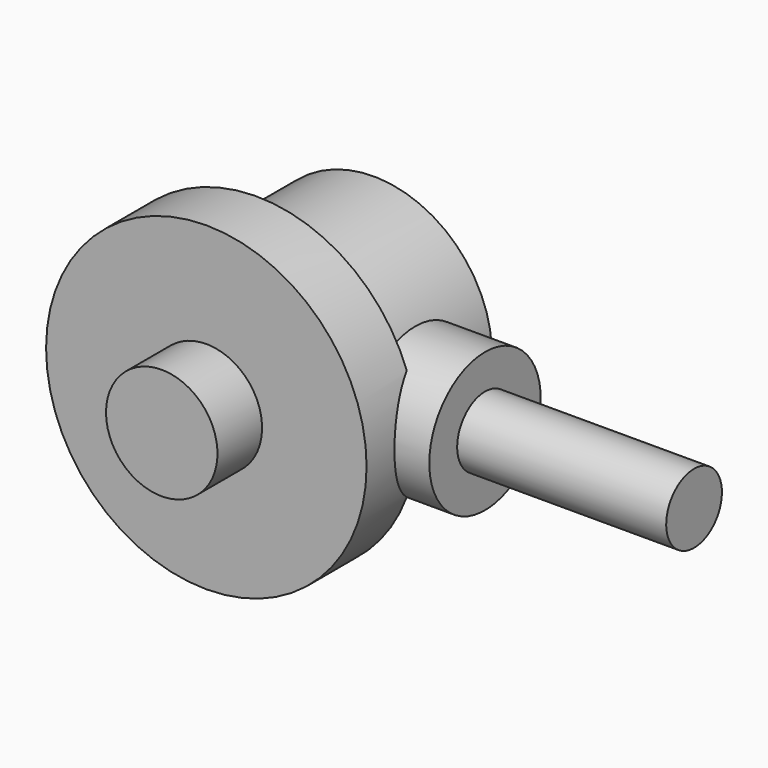
from build123d import *

# Parameters (mm, degrees)
CYLINDER203_R             = 5
CYLINDER203_DEPTH         = 5
CYLINDER204_R             = 2.5
CYLINDER204_DEPTH         = 20
CYLINDER001_R             = 11.5
CYLINDER001_DEPTH         = 4.5
CYLINDER002_R             = 4
CYLINDER002_DEPTH         = 23
CYLINDER_R                = 8.5
CYLINDER_DEPTH            = 15
FUSION_PLACEMENT_ANGLE    = 90
FUSION041_PLACEMENT_ANGLE = 180


with BuildPart() as cylinder203:
    # Cylinder203 → Cylinder203 (new body)
    with BuildSketch(Plane(origin=(15, 0, 0), x_dir=(0, 0, -1), z_dir=(1, 0, 0))):
        Circle(CYLINDER203_R)
    extrude(amount=CYLINDER203_DEPTH)


with BuildPart() as pinion:
    # Cylinder204 → Cylinder204 (new body)
    with BuildSketch(Plane(origin=(0, 0, 0), x_dir=(0, 0, -1), z_dir=(1, 0, 0))):
        Circle(CYLINDER204_R)
    extrude(amount=CYLINDER204_DEPTH)

    # Fusion040: union Cylinder203
    add(cylinder203.part)


with BuildPart() as pinion_1:
    # Fusion040 placement: moved
    add(pinion.part.moved(Location((-21.5, 54.5, 7.5))))


with BuildPart() as cylinder001:
    # Cylinder001 → Cylinder001 (new body)
    with BuildSketch(Plane.XY.offset(-1)):
        Circle(CYLINDER001_R)
    extrude(amount=CYLINDER001_DEPTH)


with BuildPart() as cylinder002:
    # Cylinder002 → Cylinder002 (new body)
    with BuildSketch(Plane.XY.offset(-5)):
        Circle(CYLINDER002_R)
    extrude(amount=CYLINDER002_DEPTH)


with BuildPart() as differential_pinion:
    # Cylinder → Cylinder (new body)
    with BuildSketch(Plane.XY.offset(-1)):
        Circle(CYLINDER_R)
    extrude(amount=CYLINDER_DEPTH)

    # Fusion: union Cylinder001, Cylinder002
    add(cylinder001.part)
    add(cylinder002.part)


with BuildPart() as differential_pinion_1:
    # Fusion placement: moved
    add(differential_pinion.part.moved(Location((7.5, 48, 7.5))).rotate(Axis((7.5, 48, 7.5), (-1, 0, 0)), FUSION_PLACEMENT_ANGLE))

    # Fusion041: union pinion
    add(pinion_1.part)


with BuildPart() as differential_pinion_2:
    # Fusion041 placement: moved
    add(differential_pinion_1.part.moved(Location((82.5, -54.5, 53.5))).rotate(Axis((82.5, -54.5, 53.5), (0, 1, 0)), FUSION041_PLACEMENT_ANGLE))


solid = differential_pinion_2.part
